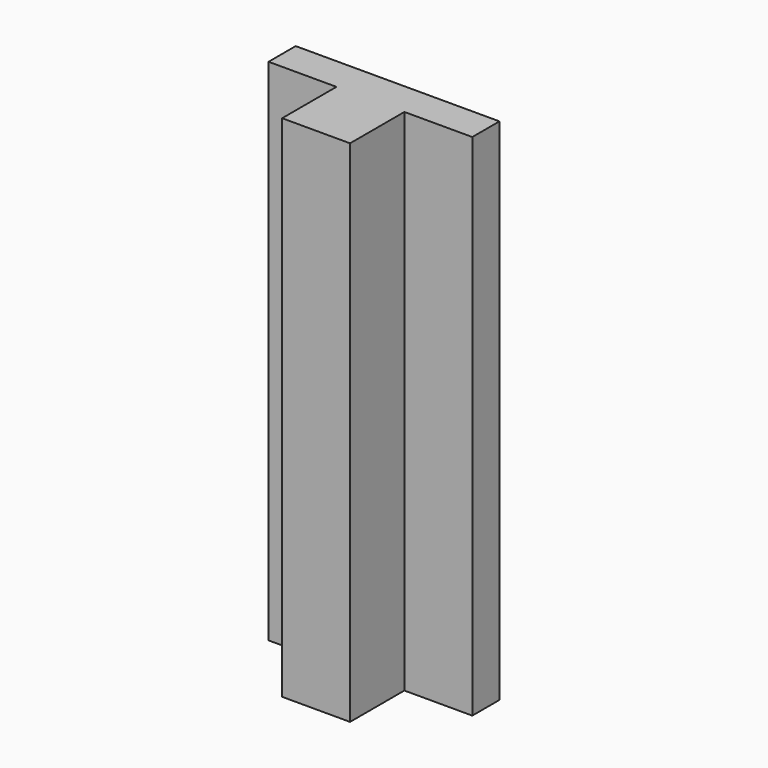
from build123d import *

# Parameters (mm, degrees)
F0_W     = 2
F0_H     = 2
F0_W_2   = 4
F1_DEPTH = 15


with BuildPart() as f1:
    # F0 (on Top) → F1 (new body, symmetric)
    with BuildSketch(Plane.XY):
        with Locations((-1, 5)):
            Rectangle(F0_W, F0_H)
        with Locations((1, 5)):
            Rectangle(F0_W, F0_H)
        with Locations((4, 5)):
            Rectangle(F0_W_2, F0_H)
        Polygon((-2, 4), (-2, 0), (2, 0), (2, 4), (0, 4), align=None)
        with Locations((-4, 5)):
            Rectangle(F0_W_2, F0_H)
    extrude(amount=F1_DEPTH, both=True)


solid = f1.part
